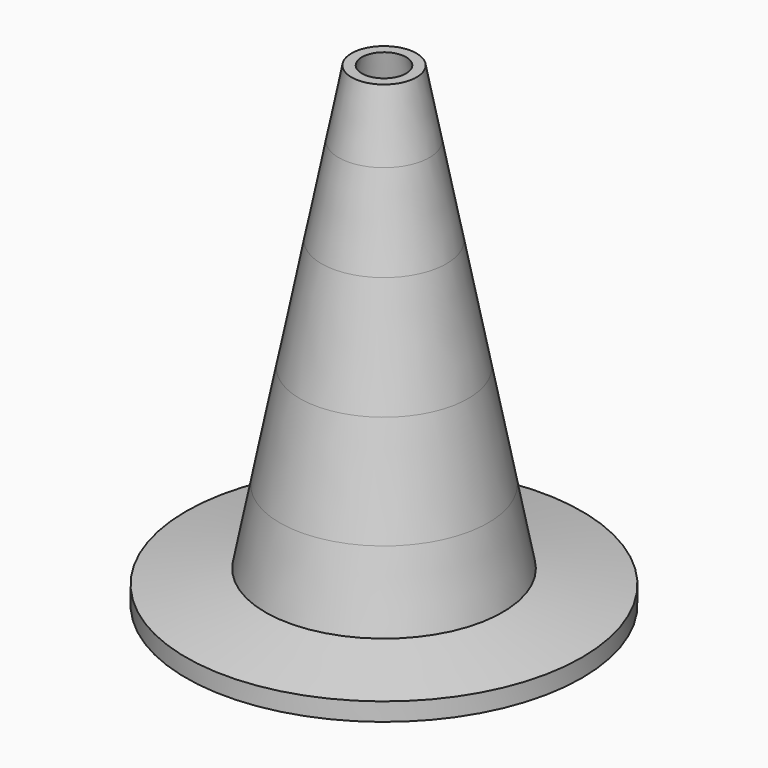
from build123d import *

# Parameters (mm, degrees)
F6_R     = 15
F7_DEPTH = 60.001
F7_TAPER = 11.5


with BuildPart() as f1:
    # F0 (on Front) → F1 (revolve)
    with BuildSketch(Plane.XZ):
        Polygon((-7.8973986956, 40.5), (0, 40.5), (0, 51.6), (-5.7397772641, 51.6), align=None)
    revolve(axis=Axis((0, 0, 30), (0, 0, 1)))


with BuildPart() as f2:
    # F0 (on Front) → F2 (revolve)
    with BuildSketch(Plane.XZ):
        Polygon((-5.7397772641, 51.6), (0, 51.6), (0, 60), (-4.1069826674, 60), align=None)
    revolve(axis=Axis((0, 0, 30), (0, 0, 1)))


with BuildPart() as f3:
    # F0 (on Front) → F3 (revolve)
    with BuildSketch(Plane.XZ):
        Polygon((-10.6381610544, 26.4), (0, 26.4), (0, 40.5), (-7.8973986956, 40.5), align=None)
    revolve(axis=Axis((0, 0, 30), (0, 0, 1)))


with BuildPart() as f4:
    # F0 (on Front) → F4 (revolve)
    with BuildSketch(Plane.XZ):
        Polygon((-13.1651050732, 13.4), (0, 13.4), (0, 26.4), (-10.6381610544, 26.4), align=None)
    revolve(axis=Axis((0, 0, 30), (0, 0, 1)))


with BuildPart() as f5:
    # F0 (on Front) → F5 (revolve)
    with BuildSketch(Plane.XZ):
        Polygon((-25, 0), (0, 0), (0, 13.4), (-13.1651050732, 13.4), (-14.9830954039, 4.0472505435), (-25, 2.281), align=None)
    revolve(axis=Axis((0, 0, 30), (0, 0, 1)))


with BuildPart() as f7_tool:
    # F6 (on face) → F7 (new body, through all)
    with BuildSketch(Plane(origin=(0, 0, 0), x_dir=(1, 0, 0), z_dir=(0, 0, -1))):
        Circle(F6_R)
    extrude(amount=-F7_DEPTH, taper=F7_TAPER)


with BuildPart() as f1_1:
    add(f1.part)

    # F7: cut by f7_tool
    add(f7_tool.part, mode=Mode.SUBTRACT)


with BuildPart() as f2_1:
    add(f2.part)

    # F7: cut by f7_tool
    add(f7_tool.part, mode=Mode.SUBTRACT)


with BuildPart() as f3_1:
    add(f3.part)

    # F7: cut by f7_tool
    add(f7_tool.part, mode=Mode.SUBTRACT)


with BuildPart() as f4_1:
    add(f4.part)

    # F7: cut by f7_tool
    add(f7_tool.part, mode=Mode.SUBTRACT)


with BuildPart() as f5_1:
    add(f5.part)

    # F7: cut by f7_tool
    add(f7_tool.part, mode=Mode.SUBTRACT)


solid = Compound([f1_1.part, f2_1.part, f3_1.part, f4_1.part, f5_1.part])
